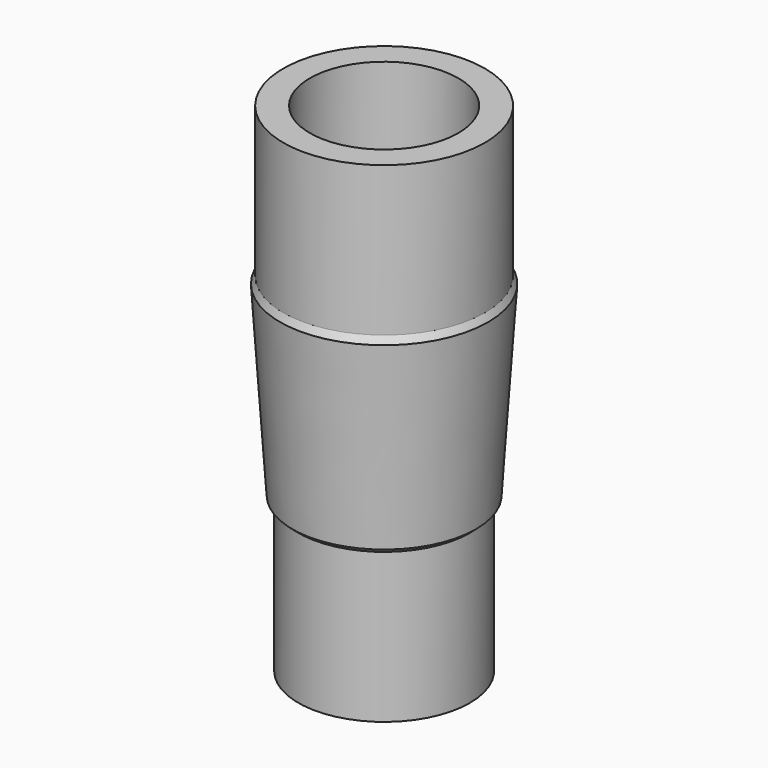
from build123d import *


with BuildPart() as f1:
    # F0 (on Front) → F1 (revolve)
    with BuildSketch(Plane.XZ):
        Polygon((32.4866, 86.909367), (32.4866, 109.769367), (32.4866, 135.169367), (23.956803, 135.169367), (23.956803, 109.769367), (23.956803, 84.369367), (20.066, 25.4), (20.066, 10.16), (20.066, -12.7), (0, -12.7), (0, -25.4), (27.686, -25.4), (27.686, 0), (27.686, 22.86), (29.596401, 24.533908), (33.56005, 84.607345), align=None)
    revolve(axis=Axis((0, 0, 25.216445), (0, 0, 1)))


solid = f1.part
